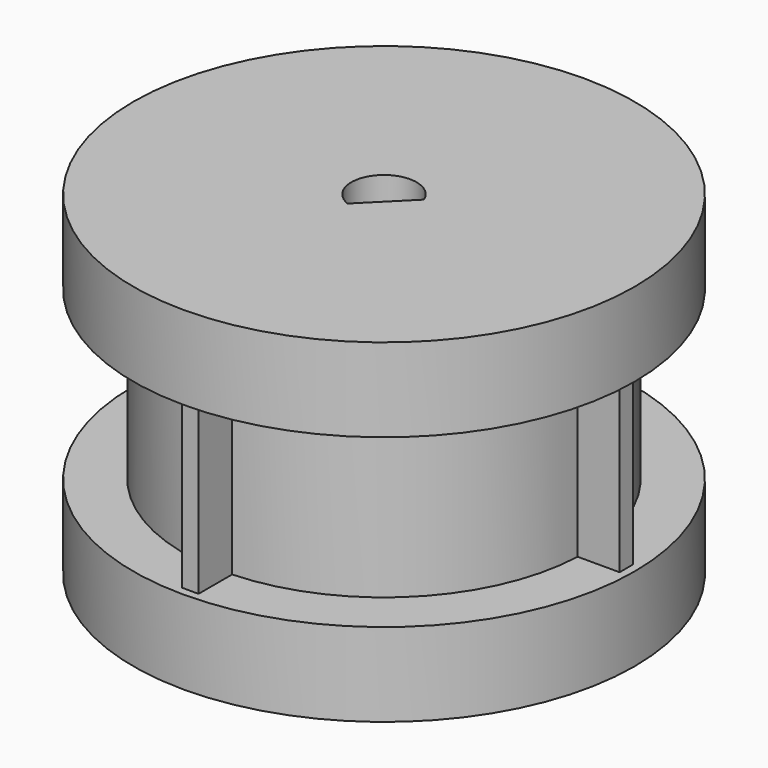
from build123d import *

# Parameters (mm, degrees)
BOX006_W                    = 10
BOX006_H                    = 10
BOX006_DEPTH                = 20
CYLINDER016_R               = 1.95
CYLINDER016_DEPTH           = 20
CUT001_PLACEMENT_ANGLE      = 315
CYLINDER015_R               = 10.5
CYLINDER015_DEPTH           = 7
CYLINDER010_R               = 12
CYLINDER010_DEPTH           = 20
CYLINDER011_R               = 15
CYLINDER011_DEPTH           = 3.5
CYLINDER012_R               = 15
CYLINDER012_DEPTH           = 1.5
CYLINDER013_R               = 15
CYLINDER013_DEPTH           = 1.5
CYLINDER014_R               = 15
CYLINDER014_DEPTH           = 3.5
BOX004_W                    = 29
BOX004_H                    = 1
BOX004_DEPTH                = 10
BOX005_W                    = 29
BOX005_H                    = 1
BOX005_DEPTH                = 10
COMPOUND002_PLACEMENT_ANGLE = 90


with BuildPart() as cube006:
    # Box006 → Box006 (new body)
    with BuildSketch(Plane(origin=(0.75, -5, 0), x_dir=(1, 0, 0), z_dir=(0, 0, 1))):
        with Locations((5, 5)):
            Rectangle(BOX006_W, BOX006_H)
    extrude(amount=BOX006_DEPTH)


with BuildPart() as n20motorshaft:
    # Cylinder016 → Cylinder016 (new body)
    with BuildSketch(Plane.XY):
        Circle(CYLINDER016_R)
    extrude(amount=CYLINDER016_DEPTH)

    # Cut001: cut Cube006
    add(cube006.part, mode=Mode.SUBTRACT)


with BuildPart() as n20motorshaft_1:
    # Cut001 placement: moved
    add(n20motorshaft.part.rotate(Axis((0, 0, 0), (0, 0, 1)), CUT001_PLACEMENT_ANGLE))


with BuildPart() as cylinder015:
    # Cylinder015 → Cylinder015 (new body)
    with BuildSketch(Plane.XY):
        Circle(CYLINDER015_R)
    extrude(amount=CYLINDER015_DEPTH)


with BuildPart() as cylinder010:
    # Cylinder010 → Cylinder010 (new body)
    with BuildSketch(Plane.XY):
        Circle(CYLINDER010_R)
    extrude(amount=CYLINDER010_DEPTH)


with BuildPart() as cylinder011:
    # Cylinder011 → Cylinder011 (new body)
    with BuildSketch(Plane.XY):
        Circle(CYLINDER011_R)
    extrude(amount=CYLINDER011_DEPTH)


with BuildPart() as cylinder012:
    # Cylinder012 → Cylinder012 (new body)
    with BuildSketch(Plane.XY.offset(3.5)):
        Circle(CYLINDER012_R)
    extrude(amount=CYLINDER012_DEPTH)


with BuildPart() as cylinder013:
    # Cylinder013 → Cylinder013 (new body)
    with BuildSketch(Plane.XY.offset(18.5)):
        Circle(CYLINDER013_R)
    extrude(amount=CYLINDER013_DEPTH)


with BuildPart() as cylinder014:
    # Cylinder014 → Cylinder014 (new body)
    with BuildSketch(Plane.XY.offset(15)):
        Circle(CYLINDER014_R)
    extrude(amount=CYLINDER014_DEPTH)


with BuildPart() as cube004:
    # Box004 → Box004 (new body)
    with BuildSketch(Plane(origin=(-14.5, -0.5, 5), x_dir=(1, 0, 0), z_dir=(0, 0, 1))):
        with Locations((14.5, 0.5)):
            Rectangle(BOX004_W, BOX004_H)
    extrude(amount=BOX004_DEPTH)


with BuildPart() as obj1:
    # Box005 → Box005 (new body)
    with BuildSketch(Plane(origin=(-14.5, -0.5, 5), x_dir=(1, 0, 0), z_dir=(0, 0, 1))):
        with Locations((14.5, 0.5)):
            Rectangle(BOX005_W, BOX005_H)
    extrude(amount=BOX005_DEPTH)


with BuildPart() as obj1_1:
    # Compound002 placement: moved
    add(obj1.part.rotate(Axis((0, 0, 0), (0, 0, 1)), COMPOUND002_PLACEMENT_ANGLE))

    # Fusion002: union Cylinder010, Cylinder011, Cylinder012, Cylinder013, Cylinder014, Cube004
    add(cylinder010.part)
    add(cylinder011.part)
    add(cylinder012.part)
    add(cylinder013.part)
    add(cylinder014.part)
    add(cube004.part)

    # Cut: cut Cylinder015
    add(cylinder015.part, mode=Mode.SUBTRACT)

    # Cut002: cut N20MotorShaft
    add(n20motorshaft_1.part, mode=Mode.SUBTRACT)


solid = obj1_1.part
